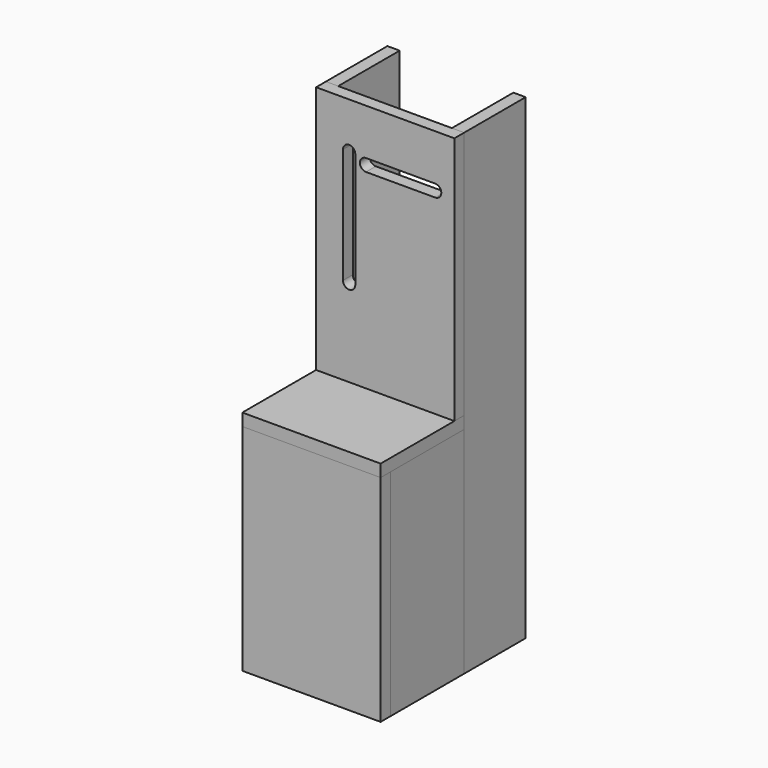
from build123d import *

# Parameters (mm, degrees)
F0_W     = 16
F0_H     = 120
F1_DEPTH = 280
F0_H_2   = 100
F2_DEPTH = 620
F3_DEPTH = 280
F4_W     = 180
F4_H     = 16
F4_W_2   = 16
F4_H_2   = 120
F4_W_3   = 164
F5_DEPTH = 16
F6_W     = 180
F6_H     = 16
F7_DEPTH = 324
F9_DEPTH = 16


with BuildPart() as f1:
    # F0 (on Top) → F1 (new body)
    with BuildSketch(Plane.XY):
        with Locations((-82, 0)):
            Rectangle(F0_W, F0_H)
        with Locations((82, 0)):
            Rectangle(F0_W, F0_H)
        with Locations((-82, 0)):
            Rectangle(F0_W, F0_H)
    extrude(amount=F1_DEPTH)


with BuildPart() as f2:
    # F0 (on Top) → F2 (new body)
    with BuildSketch(Plane.XY):
        with Locations((-82, 110)):
            Rectangle(F0_W, F0_H_2)
        with Locations((82, 110)):
            Rectangle(F0_W, F0_H_2)
    extrude(amount=F2_DEPTH)


with BuildPart() as f3:
    # F0 (on Top) → F3 (new body, through all)
    with BuildSketch(Plane.XY):
        Polygon((-74, -60), (-90, -60), (-90, -76), (90, -76), (90, -60), (74, -60), align=None)
    extrude(amount=F3_DEPTH)


with BuildPart() as f5:
    # F4 (on face) → F5 (new body)
    with BuildSketch(Plane.XY.offset(280)):
        with Locations((0, -68)):
            Rectangle(F4_W, F4_H)
        with Locations((-82, 0)):
            Rectangle(F4_W_2, F4_H_2)
        with Locations((8, 0)):
            Rectangle(F4_W_3, F4_H_2)
    extrude(amount=F5_DEPTH)


with BuildPart() as f7:
    # F6 (on face) → F7 (new body, through all)
    with BuildSketch(Plane.XY.offset(296)):
        with Locations((0, 52)):
            Rectangle(F6_W, F6_H)
    extrude(amount=F7_DEPTH)

    # F8 (on face) → F9 (cut, through all)
    with BuildSketch(Plane.XZ.offset(-44)):
        with BuildLine():
            Line((65, 560), (-25, 560))
            ThreePointArc((-25, 560), (-33, 552), (-25, 544))
            Line((-25, 544), (65, 544))
            ThreePointArc((65, 544), (73, 552), (65, 560))
        make_face()
        with BuildLine():
            ThreePointArc((-39, 560), (-47, 568), (-55, 560))
            Line((-55, 560), (-55, 410))
            ThreePointArc((-55, 410), (-47, 402), (-39, 410))
            Line((-39, 410), (-39, 560))
        make_face()
    extrude(amount=-F9_DEPTH, mode=Mode.SUBTRACT)


solid = Compound([f1.part, f2.part, f3.part, f5.part, f7.part])
